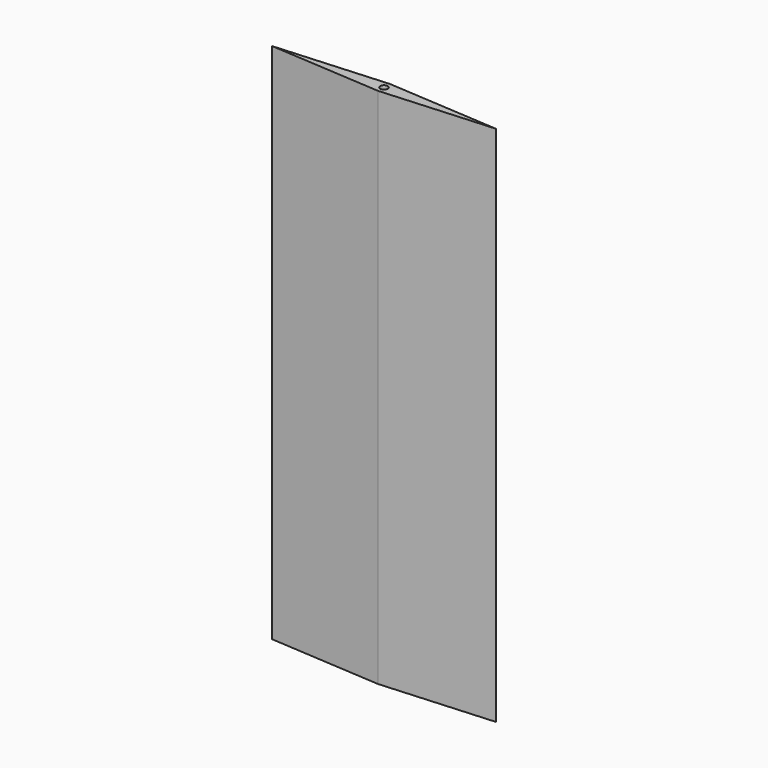
from build123d import *

# Parameters (mm, degrees)
F1_DEPTH = 175
F2_R     = 2.5
F3_DEPTH = 350


with BuildPart() as f1:
    # F0 (on Top) → F1 (new body, symmetric)
    with BuildSketch(Plane.XY):
        Polygon((75, 0), (0, 5), (-75, 0), (0, -5), align=None)
    extrude(amount=F1_DEPTH, both=True)

    # F2 (on face) → F3 (cut, through all)
    with BuildSketch(Plane.XY.offset(175)):
        Circle(F2_R)
    extrude(amount=-F3_DEPTH, mode=Mode.SUBTRACT)


solid = f1.part
